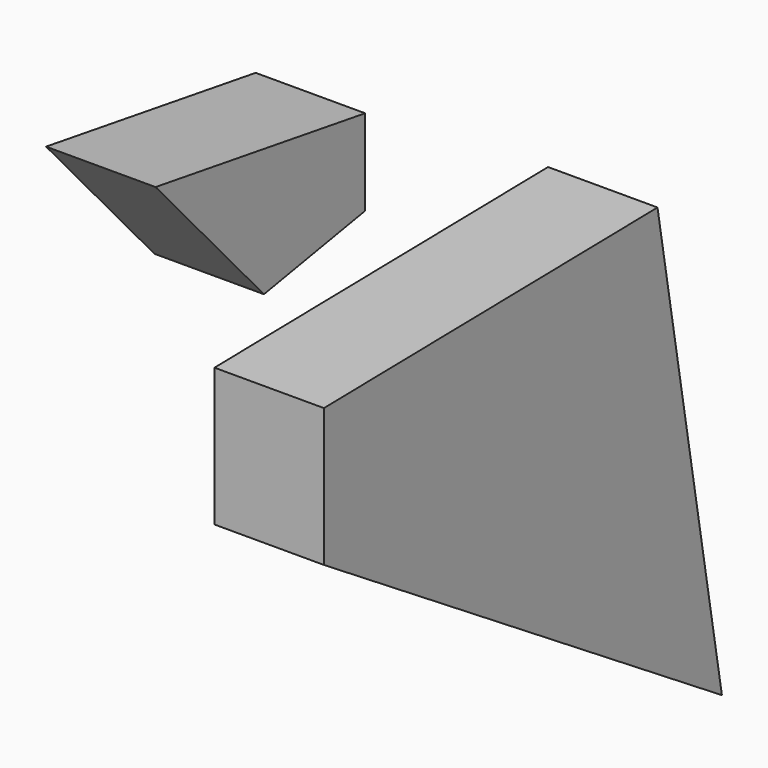
from build123d import *

# Parameters (mm, degrees)
F1_DEPTH = 25.4


with BuildPart() as f1:
    # F0 (on Right) → F1 (new body)
    with BuildSketch(Plane.YZ):
        Polygon((0, 48.428912), (-96.746057, 46.771031), (-96.746057, 14.731053), (18.68327, -58.790002), align=None)
        Polygon((-114.142115, 77.098545), (-84.797559, 82.211936), (-84.797559, 102.139398), (-145.581543, 111.772746), align=None)
    extrude(amount=F1_DEPTH)


solid = f1.part
